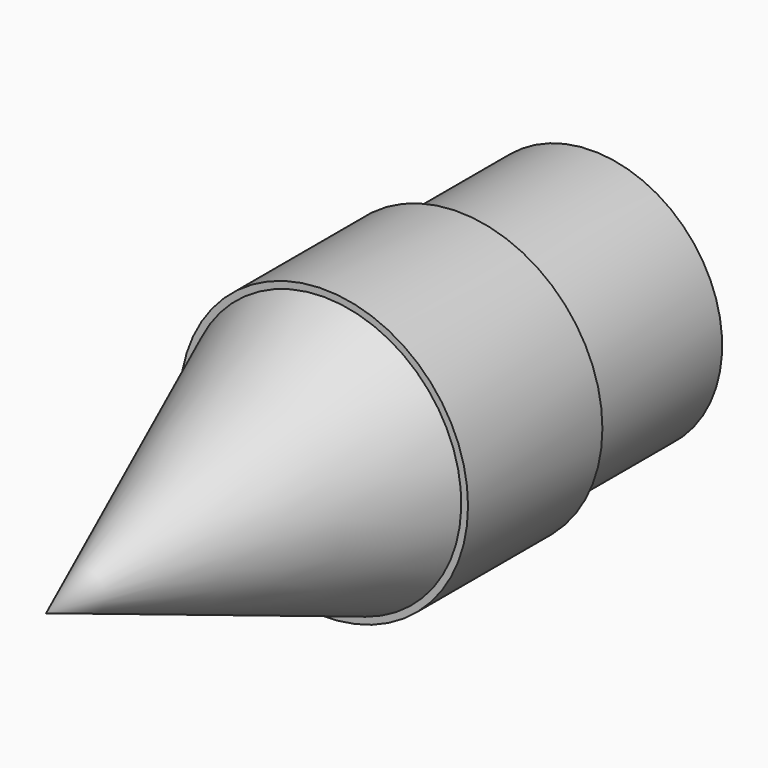
from build123d import *

# Parameters (mm, degrees)
F0_R     = 21.435
F0_R_2   = 19.35
F1_DEPTH = 25
F5_R     = 19.154771
F5_R_2   = 18.861777
F6_DEPTH = 25
F4_R     = 19.257792
F7_DEPTH = 25


with BuildPart() as f1:
    # F0 (on Front) → F1 (new body)
    with BuildSketch(Plane.XZ):
        Circle(F0_R)
        Circle(F0_R_2, mode=Mode.SUBTRACT)
    extrude(amount=F1_DEPTH)

    # F2 (on Right) → F3 (revolve)
    with BuildSketch(Plane.YZ):
        Polygon((-76.707862, 0), (-24.888575, 0), (-24.378041, 20.674003), align=None)
    revolve(axis=Axis((0, -6.062602, 0), (0, -1, 0)))

    # F5 (on Front) → F6 (join)
    with BuildSketch(Plane.XZ):
        Circle(F5_R)
        Circle(F5_R_2, mode=Mode.SUBTRACT)
    extrude(amount=F6_DEPTH)

    # F4 (on face) → F7 (join)
    with BuildSketch(Plane(origin=(0, 0, 0), x_dir=(-1, 0, 0), z_dir=(0, 1, 0))):
        Circle(F4_R)
    extrude(amount=F7_DEPTH)


solid = f1.part
